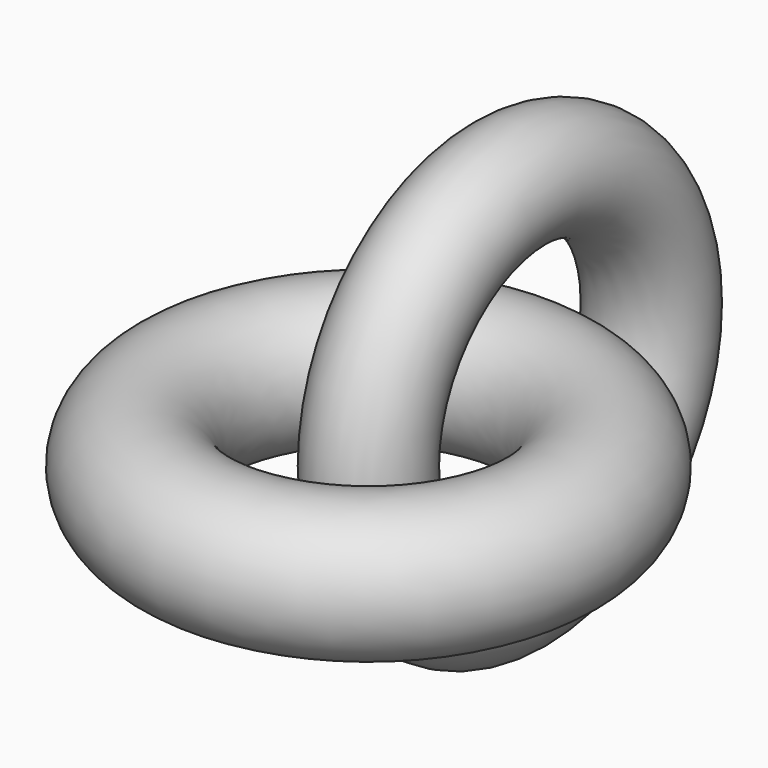
from build123d import *

# Parameters (mm, degrees)
F0_R = 12.700107
F2_R = 10.214888


with BuildPart() as f1:
    # F0 (on Front) → F1 (revolve)
    with BuildSketch(Plane.XZ):
        with Locations((33.898029, 0)):
            Circle(F0_R)
    revolve(axis=Axis((0, 0, 14.062501), (0, 0, -1)))


with BuildPart() as f3:
    # F2 (on Top) → F3 (revolve)
    with BuildSketch(Plane.XY):
        Circle(F2_R)
    revolve(axis=Axis((3.996711, 32.713816, 0), (1, 0, 0)))


solid = Compound([f1.part, f3.part])
